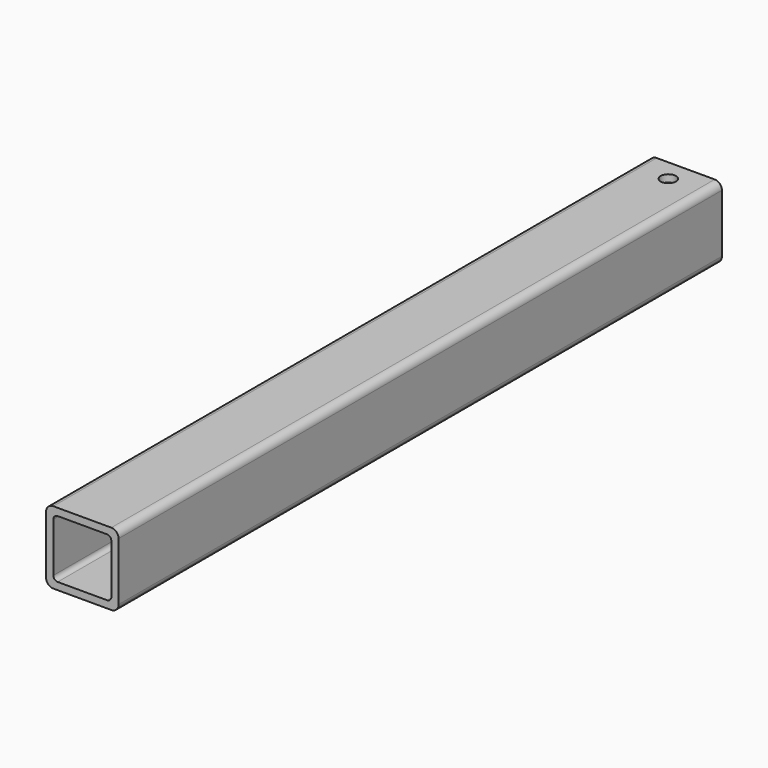
from build123d import *

# Parameters (mm, degrees)
F0_W     = 50
F0_H     = 50
F0_W_2   = 40
F0_H_2   = 40
F1_DEPTH = 520
F2_R     = 5
F3_R     = 3
F5_D     = 10.5


with BuildPart() as f1:
    # F0 (on Front) → F1 (new body)
    with BuildSketch(Plane.XZ):
        Rectangle(F0_W, F0_H)
        Rectangle(F0_W_2, F0_H_2, mode=Mode.SUBTRACT)
    extrude(amount=F1_DEPTH)

    # F2
    f2_edges = [f1.edges().sort_by_distance(p)[0] for p in [
        (25, -260, 25),
        (-25, -260, 25),
        (25, -260, -25),
        (-25, -260, -25),
    ]]
    fillet(f2_edges, radius=F2_R)

    # F3
    f3_edges = [f1.edges().sort_by_distance(p)[0] for p in [
        (-20, -260, 20),
        (20, -260, 20),
        (20, -260, -20),
        (-20, -260, -20),
    ]]
    fillet(f3_edges, radius=F3_R)

    # F5 (through all)
    with Locations(Plane(origin=(0, 0, -25), x_dir=(1, 0, 0), z_dir=(0, 0, -1))):
        with Locations((0, 15)):
            Hole(F5_D / 2)


solid = f1.part
